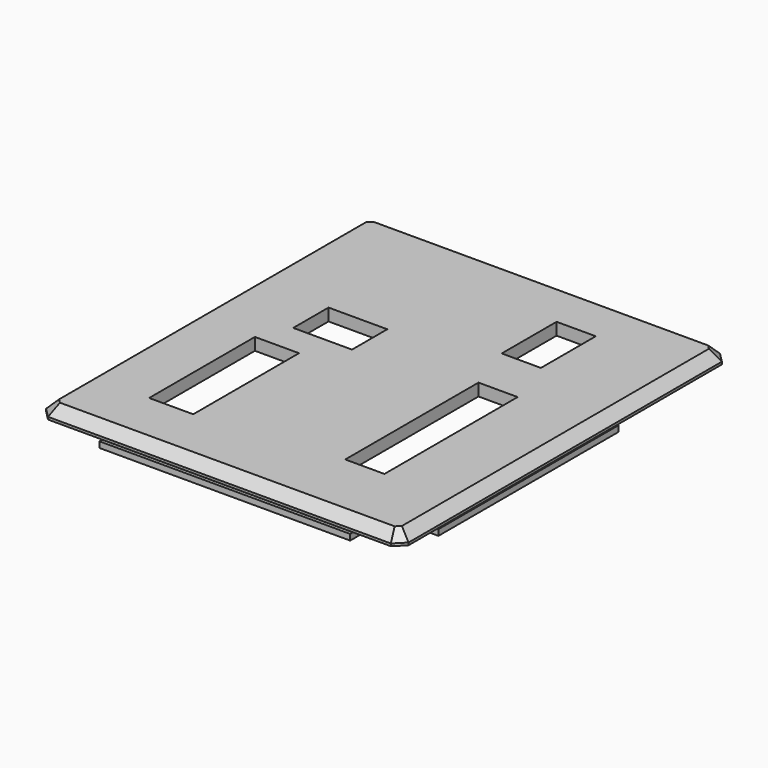
from build123d import *

# Parameters (mm, degrees)
PAD006_DEPTH    = 2.5
CHAMFER001_SIZE = 2
SKETCH006_W     = 8
SKETCH006_H     = 14
SKETCH006_H_2   = 34
SKETCH006_W_2   = 9
SKETCH006_H_3   = 27
POCKET001_DEPTH = 5
SKETCH008_W     = 51.2
SKETCH008_H     = 1.8
SKETCH008_W_2   = 1.8
SKETCH008_H_2   = 46
SKETCH008_H_3   = 61
PAD007_DEPTH    = 2.65
SKETCH009_W     = 51.2
SKETCH009_H     = 0.7
SKETCH009_W_2   = 0.7
SKETCH009_H_2   = 46
SKETCH009_H_3   = 61
PAD008_DEPTH    = 1.2
SKETCH014_W     = 12
SKETCH014_H     = 9
POCKET004_DEPTH = 5


with BuildPart() as part:
    # Sketch004 → Pad006 (new body)
    with BuildSketch(Plane.XY.offset(21)):
        Polygon((-34.986794, 50.683687), (35.013206, 50.683687), (37.013212, 48.683681), (37.013212, -31.316319), (35.013206, -33.316325), (-34.986794, -33.316325), (-36.9868, -31.316319), (-36.9868, 48.683681), align=None)
    extrude(amount=PAD006_DEPTH)

    # Chamfer001
    chamfer001_edges = [part.edges().sort_by_distance(p)[0] for p in [
        (0.013206, -33.316325, 23.5),
        (-36.9868, 8.683681, 23.5),
        (-35.986797, 49.683684, 23.5),
        (0.013206, 50.683687, 23.5),
        (36.013209, 49.683684, 23.5),
        (37.013212, 8.683681, 23.5),
        (36.013209, -32.316322, 23.5),
        (-35.986797, -32.316322, 23.5),
    ]]
    chamfer(chamfer001_edges, length=CHAMFER001_SIZE)

    # Sketch006 → Pocket001 (cut)
    with BuildSketch(Plane.XY.offset(23.5)):
        with Locations((14.226603, 32.961599)):
            Rectangle(SKETCH006_W, SKETCH006_H)
        with Locations((17.619118, -1.209573)):
            Rectangle(SKETCH006_W, SKETCH006_H_2)
        with Locations((-19.565168, -7.664242)):
            Rectangle(SKETCH006_W_2, SKETCH006_H_3)
    extrude(amount=-POCKET001_DEPTH, mode=Mode.SUBTRACT)

    # Sketch008 → Pad007 (new body)
    with BuildSketch(Plane(origin=(0, 0, 21), x_dir=(1, 0, 0), z_dir=(0, 0, -1))):
        with Locations((-0.047285, 30.276958)):
            Rectangle(SKETCH008_W, SKETCH008_H)
        with Locations((33.924806, -1.191265)):
            Rectangle(SKETCH008_W_2, SKETCH008_H_2)
        with Locations((0.001681, -47.694109)):
            Rectangle(SKETCH008_W, SKETCH008_H)
        with Locations((-33.880968, -8.711103)):
            Rectangle(SKETCH008_W_2, SKETCH008_H_3)
    extrude(amount=PAD007_DEPTH)

    # Sketch009 → Pad008 (new body)
    with BuildSketch(Plane(origin=(0, 0, 18.35), x_dir=(1, 0, 0), z_dir=(0, 0, -1))):
        with Locations((-0.047285, 31.526958)):
            Rectangle(SKETCH009_W, SKETCH009_H)
        with Locations((35.174806, -1.191265)):
            Rectangle(SKETCH009_W_2, SKETCH009_H_2)
        with Locations((0.001681, -48.944109)):
            Rectangle(SKETCH009_W, SKETCH009_H)
        with Locations((-35.130968, -8.711103)):
            Rectangle(SKETCH009_W_2, SKETCH009_H_3)
    extrude(amount=-PAD008_DEPTH)

    # Sketch014 → Pocket004 (cut)
    with BuildSketch(Plane.XY.offset(23.5)):
        with Locations((-15.238739, 16.5837)):
            Rectangle(SKETCH014_W, SKETCH014_H)
    extrude(amount=-POCKET004_DEPTH, mode=Mode.SUBTRACT)


solid = part.part
